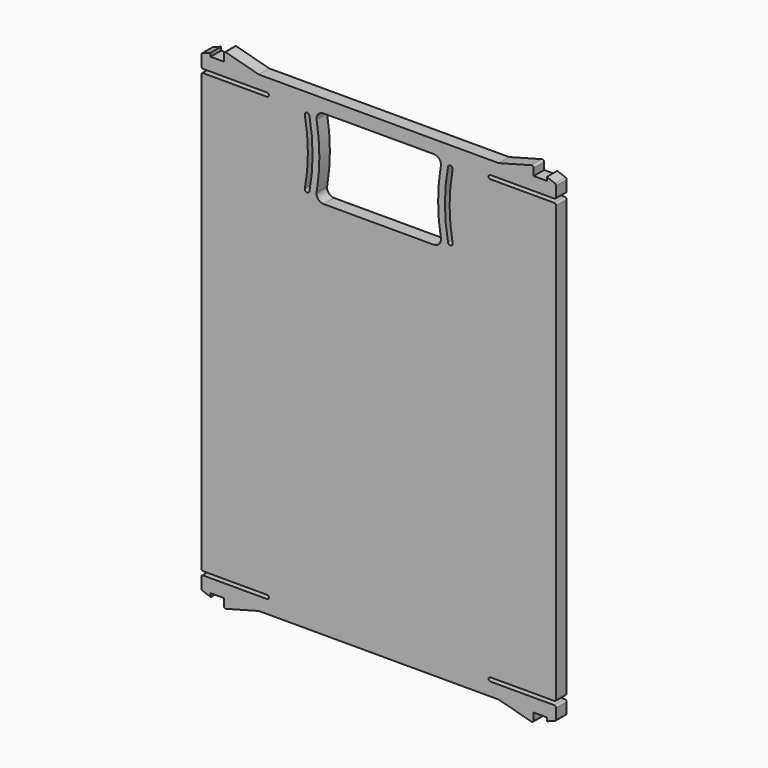
from build123d import *

# Parameters (mm, degrees)
PAD008_DEPTH    = 2.8
FILLET001_R     = 0.4
POCKET004_DEPTH = 2.801


with BuildPart() as part:
    # Sketch008 (on Face4 of ShapeBinder007) → Pad008 (new body)
    with BuildSketch(Plane(origin=(0, 20.211282, 0), x_dir=(-1, 0, 0), z_dir=(0, 1, 0))):
        with BuildLine():
            Line((37.8, 63.127675), (37.8, 60.327675))
            Line((37.8, 60.327675), (23.8, 60.327675))
            ThreePointArc((23.8, 60.327675), (23.4, 59.927675), (23.8, 59.527675))
            Line((23.8, 59.527675), (37.8, 59.527675))
            Line((37.8, 59.527675), (37.8, -33.872325))
            Line((37.8, -33.872325), (23.8, -33.872325))
            ThreePointArc((23.8, -33.872325), (23.4, -34.272325), (23.8, -34.672325))
            Line((23.8, -34.672325), (37.8, -34.672325))
            Line((37.8, -34.672325), (37.8, -37.472325))
            Line((37.8, -37.472325), (35.8, -38.222325))
            Line((35.8, -38.222325), (35.8, -37.472325))
            Line((35.8, -37.472325), (33, -37.472325))
            Line((33, -39.472325), (33, -37.472325))
            Line((25.535898, -37.472325), (33, -39.472325))
            Line((-25.535898, -37.472325), (25.535898, -37.472325))
            Line((-33, -39.472325), (-25.535898, -37.472325))
            Line((-33, -37.472325), (-33, -39.472325))
            Line((-35.8, -37.472325), (-33, -37.472325))
            Line((-35.8, -38.222325), (-35.8, -37.472325))
            Line((-37.8, -37.472325), (-35.8, -38.222325))
            Line((-37.8, -37.472325), (-37.8, -34.672325))
            Line((-37.8, -34.672325), (-23.8, -34.672325))
            ThreePointArc((-23.8, -34.672325), (-23.4, -34.272325), (-23.8, -33.872325))
            Line((-23.8, -33.872325), (-37.8, -33.872325))
            Line((-37.8, -33.872325), (-37.8, 59.527675))
            Line((-23.8, 59.527675), (-37.8, 59.527675))
            ThreePointArc((-23.8, 59.527675), (-23.4, 59.927675), (-23.8, 60.327675))
            Line((-37.8, 60.327675), (-23.8, 60.327675))
            Line((-37.8, 60.327675), (-37.8, 63.127675))
            Line((-37.8, 63.127675), (-35.8, 63.877675))
            Line((-35.8, 63.877675), (-35.8, 63.127675))
            Line((-35.8, 63.127675), (-33, 63.127675))
            Line((-33, 65.127675), (-33, 63.127675))
            Line((-25.535898, 63.127675), (-33, 65.127675))
            Line((25.535898, 63.127675), (-25.535898, 63.127675))
            Line((33, 65.127675), (25.535898, 63.127675))
            Line((33, 63.127675), (33, 65.127675))
            Line((35.8, 63.127675), (33, 63.127675))
            Line((35.8, 63.877675), (35.8, 63.127675))
            Line((37.8, 63.127675), (35.8, 63.877675))
        make_face()
    extrude(amount=-PAD008_DEPTH)

    # Fillet001
    fillet001_edges = [part.edges().sort_by_distance(p)[0] for p in [
        (-33, 18.811282, 65.127675),
        (-37.8, 18.811282, 63.127675),
        (-37.8, 18.811282, 60.327675),
        (-37.8, 18.811282, 59.527675),
        (-37.8, 18.811282, -33.872325),
        (-37.8, 18.811282, -34.672325),
        (-37.8, 18.811282, -37.472325),
        (-33, 18.811282, -39.472325),
        (33, 18.811282, -39.472325),
        (37.8, 18.811282, -37.472325),
        (37.8, 18.811282, -34.672325),
        (37.8, 18.811282, -33.872325),
        (33, 18.811282, 65.127675),
        (37.8, 18.811282, 63.127675),
        (37.8, 18.811282, 60.327675),
        (37.8, 18.811282, 59.527675),
    ]]
    fillet(fillet001_edges, radius=FILLET001_R)

    # Sketch017 (on Face2 of Fillet001) → Pocket004 (cut, through all)
    with BuildSketch(Plane(origin=(0, 20.211282, 0), x_dir=(-1, 0, 0), z_dir=(0, 1, 0))):
        with BuildLine():
            ThreePointArc((-11.75, 60.327675), (-12.81066, 59.888335), (-13.25, 58.827675))
            ThreePointArc((-13.25, 58.827675), (-13.24452, 58.699573), (-13.22812, 58.572408))
            ThreePointArc((-13.22812, 45.082943), (-12.65, 51.827675), (-13.22812, 58.572408))
            ThreePointArc((-13.22812, 45.082943), (-13.24452, 44.955777), (-13.25, 44.827675))
            ThreePointArc((-13.25, 44.827675), (-12.81066, 43.767015), (-11.75, 43.327675))
            Line((11.75, 43.327675), (-11.75, 43.327675))
            ThreePointArc((11.75, 43.327675), (12.81066, 43.767015), (13.25, 44.827675))
            ThreePointArc((13.25, 44.827675), (13.24452, 44.955777), (13.22812, 45.082943))
            ThreePointArc((13.22812, 58.572408), (12.65, 51.827675), (13.22812, 45.082943))
            ThreePointArc((13.22812, 58.572408), (13.24452, 58.699573), (13.25, 58.827675))
            ThreePointArc((13.25, 58.827675), (12.81066, 59.888335), (11.75, 60.327675))
            Line((-11.75, 60.327675), (11.75, 60.327675))
        make_face()
        with BuildLine():
            ThreePointArc((-14.7587, 44.73481), (-14.09424, 51.827675), (-14.7587, 58.92054))
            ThreePointArc((-14.7587, 58.92054), (-15.342865, 59.318975), (-15.7413, 58.73481))
            ThreePointArc((-15.7413, 44.92054), (-15.09424, 51.827675), (-15.7413, 58.73481))
            ThreePointArc((-15.7413, 44.92054), (-15.342865, 44.336375), (-14.7587, 44.73481))
        make_face()
        with BuildLine():
            ThreePointArc((14.7587, 58.92054), (14.09424, 51.827675), (14.7587, 44.73481))
            ThreePointArc((14.7587, 44.73481), (15.342865, 44.336375), (15.7413, 44.92054))
            ThreePointArc((15.7413, 58.73481), (15.09424, 51.827675), (15.7413, 44.92054))
            ThreePointArc((15.7413, 58.73481), (15.342865, 59.318975), (14.7587, 58.92054))
        make_face()
    extrude(amount=-POCKET004_DEPTH, mode=Mode.SUBTRACT)


solid = part.part
